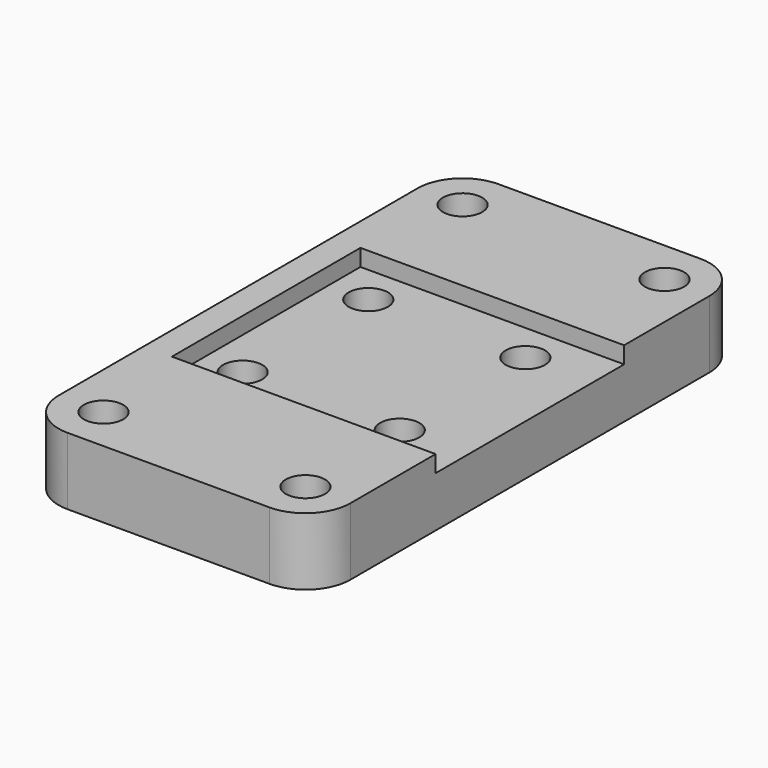
from build123d import *

# Parameters (mm, degrees)
F0_R     = 1.75
F1_DEPTH = 2
F3_DEPTH = 2.5
F4_R     = 1.75
F5_DEPTH = 1.5


with BuildPart() as f1:
    # F0 (on Top) → F1 (new body)
    with BuildSketch(Plane.XY):
        with BuildLine():
            ThreePointArc((-9, -24), (-6.171573, -22.828427), (-5, -20))
            ThreePointArc((-5, -20), (-9, -16), (-13, -20))
            ThreePointArc((-13, -20), (-11.828427, -22.828427), (-9, -24))
        make_face()
        with Locations((-9, -20)):
            Circle(F0_R, mode=Mode.SUBTRACT)
        with BuildLine():
            ThreePointArc((-13, -20), (-9, -16), (-5, -20))
            ThreePointArc((-5, -20), (-6.171573, -22.828427), (-9, -24))
            Line((-9, -24), (9, -24))
            ThreePointArc((9, -24), (6.171573, -17.171573), (13, -20))
            Line((13, -20), (13, 20))
            ThreePointArc((13, 20), (6.171573, 17.171573), (9, 24))
            Line((9, 24), (-9, 24))
            ThreePointArc((-9, 24), (-6.171573, 22.828427), (-5, 20))
            ThreePointArc((-5, 20), (-9, 16), (-13, 20))
            Line((-13, 20), (-13, -20))
        make_face()
        with Locations((-7, -7)):
            Circle(F0_R, mode=Mode.SUBTRACT)
        with Locations((7, -7)):
            Circle(F0_R, mode=Mode.SUBTRACT)
        with Locations((-7, 7)):
            Circle(F0_R, mode=Mode.SUBTRACT)
        with Locations((7, 7)):
            Circle(F0_R, mode=Mode.SUBTRACT)
        with BuildLine():
            ThreePointArc((-9, 24), (-11.828427, 22.828427), (-13, 20))
            ThreePointArc((-13, 20), (-9, 16), (-5, 20))
            ThreePointArc((-5, 20), (-6.171573, 22.828427), (-9, 24))
        make_face()
        with Locations((-9, 20)):
            Circle(F0_R, mode=Mode.SUBTRACT)
        with BuildLine():
            ThreePointArc((13, -20), (6.171573, -17.171573), (9, -24))
            ThreePointArc((9, -24), (11.828427, -22.828427), (13, -20))
        make_face()
        with Locations((9, -20)):
            Circle(F0_R, mode=Mode.SUBTRACT)
        with BuildLine():
            ThreePointArc((13, 20), (11.828427, 22.828427), (9, 24))
            ThreePointArc((9, 24), (6.171573, 17.171573), (13, 20))
        make_face()
        with Locations((9, 20)):
            Circle(F0_R, mode=Mode.SUBTRACT)
    extrude(amount=F1_DEPTH)

    # F2 (on face) → F3 (join)
    with BuildSketch(Plane(origin=(0, 0, 0), x_dir=(1, 0, 0), z_dir=(0, 0, -1))):
        with BuildLine():
            ThreePointArc((-9, 24), (-11.828427, 22.828427), (-13, 20))
            Line((-13, 20), (-13, -20))
            ThreePointArc((-13, -20), (-11.828427, -22.828427), (-9, -24))
            Line((-9, -24), (9, -24))
            ThreePointArc((9, -24), (11.828427, -22.828427), (13, -20))
            Line((13, -20), (13, 20))
            ThreePointArc((13, 20), (11.828427, 22.828427), (9, 24))
            Line((9, 24), (-9, 24))
        make_face()
        Polygon((-7.25, -16.968911), (-5.5, -20), (-7.25, -23.031089), (-10.75, -23.031089), (-12.5, -20), (-10.75, -16.968911), align=None, mode=Mode.SUBTRACT)
        Polygon((-5.25, -3.968911), (-3.5, -7), (-5.25, -10.031089), (-8.75, -10.031089), (-10.5, -7), (-8.75, -3.968911), align=None, mode=Mode.SUBTRACT)
        Polygon((10.75, -16.968911), (12.5, -20), (10.75, -23.031089), (7.25, -23.031089), (5.5, -20), (7.25, -16.968911), align=None, mode=Mode.SUBTRACT)
        Polygon((8.75, -3.968911), (10.5, -7), (8.75, -10.031089), (5.25, -10.031089), (3.5, -7), (5.25, -3.968911), align=None, mode=Mode.SUBTRACT)
        Polygon((-8.75, 10.031089), (-5.25, 10.031089), (-3.5, 7), (-5.25, 3.968911), (-8.75, 3.968911), (-10.5, 7), align=None, mode=Mode.SUBTRACT)
        Polygon((-7.25, 23.031089), (-5.5, 20), (-7.25, 16.968911), (-10.75, 16.968911), (-12.5, 20), (-10.75, 23.031089), align=None, mode=Mode.SUBTRACT)
        Polygon((8.75, 10.031089), (10.5, 7), (8.75, 3.968911), (5.25, 3.968911), (3.5, 7), (5.25, 10.031089), align=None, mode=Mode.SUBTRACT)
        Polygon((7.25, 23.031089), (10.75, 23.031089), (12.5, 20), (10.75, 16.968911), (7.25, 16.968911), (5.5, 20), align=None, mode=Mode.SUBTRACT)
    extrude(amount=F3_DEPTH)

    # F4 (on face) → F5 (join)
    with BuildSketch(Plane.XY.offset(2)):
        with BuildLine():
            Line((-10.5, 10.5), (10.5, 10.5))
            Line((10.5, 10.5), (13, 10.5))
            Line((13, 10.5), (13, 20))
            ThreePointArc((13, 20), (11.828427, 22.828427), (9, 24))
            Line((9, 24), (-9, 24))
            ThreePointArc((-9, 24), (-11.828427, 22.828427), (-13, 20))
            Line((-13, 20), (-13, -20))
            ThreePointArc((-13, -20), (-11.828427, -22.828427), (-9, -24))
            Line((-9, -24), (9, -24))
            ThreePointArc((9, -24), (11.828427, -22.828427), (13, -20))
            Line((13, -20), (13, -10.5))
            Line((13, -10.5), (10.5, -10.5))
            Line((10.5, -10.5), (-10.5, -10.5))
            Line((-10.5, -10.5), (-10.5, 10.5))
        make_face()
        with Locations((-9, -20)):
            Circle(F4_R, mode=Mode.SUBTRACT)
        with Locations((9, -20)):
            Circle(F4_R, mode=Mode.SUBTRACT)
        with Locations((-9, 20)):
            Circle(F4_R, mode=Mode.SUBTRACT)
        with Locations((9, 20)):
            Circle(F4_R, mode=Mode.SUBTRACT)
    extrude(amount=F5_DEPTH)


solid = f1.part
